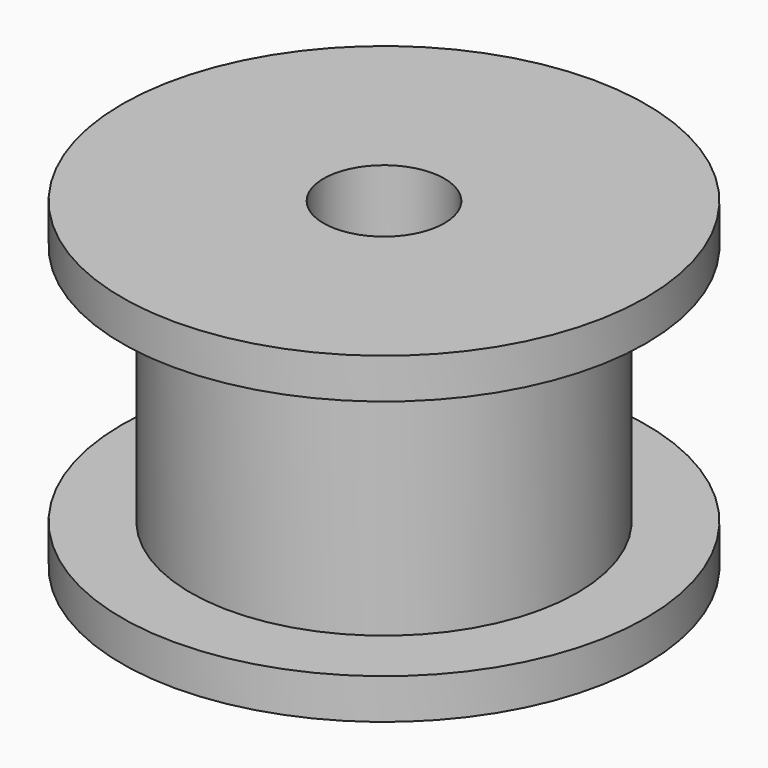
from build123d import *


with BuildPart() as part:
    # Sketch → Revolution (revolve)
    with BuildSketch(Plane.XZ):
        Polygon((1.5, -4), (1.5, 4), (6.5, 4), (6.5, 3), (4.8, 3), (4.8, -3), (6.5, -3), (6.5, -4), align=None)
    revolve(axis=Axis((0, 0, 0), (0, 0, 1)))


solid = part.part
